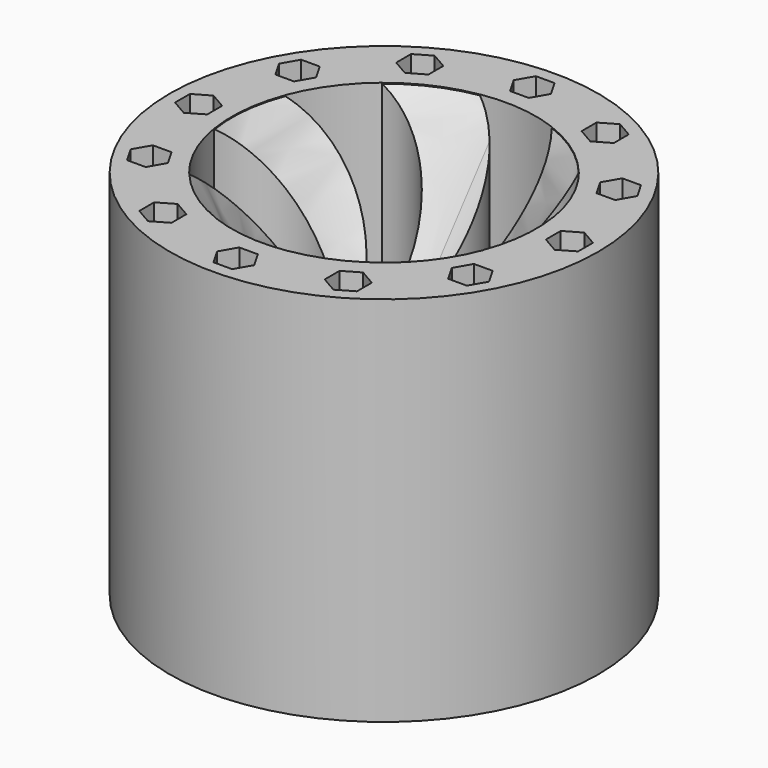
from build123d import *

# Parameters (mm, degrees)
F0_R     = 21.9376783044
F1_DEPTH = 38.1


with BuildPart() as f1:
    # F0 (on Top) → F1 (new body)
    with BuildSketch(Plane.XY):
        Circle(F0_R)
        Polygon((0.952331129, -17.3366013914), (1.9046622579, -18.9860872924), (0.952331129, -20.6355731934), (-0.952331129, -20.6355731934), (-1.9046622579, -18.9860872924), (-0.952331129, -17.3366013914), align=None, mode=Mode.SUBTRACT)
        Polygon((-7.8435577452, -15.4901027847), (-7.8435577452, -17.3947650427), (-9.4930436462, -18.3470961716), (-11.1425295472, -17.3947650427), (-11.1425295472, -15.4901027847), (-9.4930436462, -14.5377716558), align=None, mode=Mode.SUBTRACT)
        Polygon((-14.5377716558, -9.4930436462), (-15.4901027847, -11.1425295472), (-17.3947650427, -11.1425295472), (-18.3470961716, -9.4930436462), (-17.3947650427, -7.8435577452), (-15.4901027847, -7.8435577452), align=None, mode=Mode.SUBTRACT)
        Polygon((9.4930436462, -14.5377716558), (11.1425295472, -15.4901027847), (11.1425295472, -17.3947650427), (9.4930436462, -18.3470961716), (7.8435577452, -17.3947650427), (7.8435577452, -15.4901027847), align=None, mode=Mode.SUBTRACT)
        Polygon((15.4901027847, -7.8435577452), (17.3947650427, -7.8435577452), (18.3470961716, -9.4930436462), (17.3947650427, -11.1425295472), (15.4901027847, -11.1425295472), (14.5377716558, -9.4930436462), align=None, mode=Mode.SUBTRACT)
        Polygon((17.3366013914, 0.952331129), (18.9860872924, 1.9046622579), (20.6355731934, 0.952331129), (20.6355731934, -0.952331129), (18.9860872924, -1.9046622579), (17.3366013914, -0.952331129), align=None, mode=Mode.SUBTRACT)
        Polygon((-17.3366013914, -0.952331129), (-18.9860872924, -1.9046622579), (-20.6355731934, -0.952331129), (-20.6355731934, 0.952331129), (-18.9860872924, 1.9046622579), (-17.3366013914, 0.952331129), align=None, mode=Mode.SUBTRACT)
        Polygon((-15.4901027847, 7.8435577452), (-17.3947650427, 7.8435577452), (-18.3470961716, 9.4930436462), (-17.3947650427, 11.1425295472), (-15.4901027847, 11.1425295472), (-14.5377716558, 9.4930436462), align=None, mode=Mode.SUBTRACT)
        Polygon((-9.4930436462, 14.5377716558), (-11.1425295472, 15.4901027847), (-11.1425295472, 17.3947650427), (-9.4930436462, 18.3470961716), (-7.8435577452, 17.3947650427), (-7.8435577452, 15.4901027847), align=None, mode=Mode.SUBTRACT)
        with BuildLine():
            ThreePointArc((15.3851137164, 2.504792796), (15.5369545339, 1.2564851086), (15.5876781791, 0))
            ThreePointArc((15.5876781791, 0), (15.3327479222, -2.8075883195), (14.5762957165, -5.5233426656))
            ThreePointArc((14.5762957165, -5.5233426656), (12.6500742097, -9.1077622666), (9.8617710507, -12.0715029205))
            ThreePointArc((9.8617710507, -12.0715029205), (6.401404492, -14.2125905994), (2.504792796, -15.3851137164))
            ThreePointArc((2.504792796, -15.3851137164), (-1.5625163897, -15.5091667587), (-5.5233426656, -14.5762957165))
            ThreePointArc((-5.5233426656, -14.5762957165), (-9.1077622666, -12.6500742097), (-12.0715029205, -9.8617710507))
            ThreePointArc((-12.0715029205, -9.8617710507), (-14.2125905994, -6.401404492), (-15.3851137164, -2.504792796))
            ThreePointArc((-15.3851137164, -2.504792796), (-15.5091667587, 1.5625163897), (-14.5762957165, 5.5233426656))
            ThreePointArc((-14.5762957165, 5.5233426656), (-12.6500742097, 9.1077622666), (-9.8617710507, 12.0715029205))
            ThreePointArc((-9.8617710507, 12.0715029205), (-6.401404492, 14.2125905994), (-2.504792796, 15.3851137164))
            ThreePointArc((-2.504792796, 15.3851137164), (1.5625163897, 15.5091667587), (5.5233426656, 14.5762957165))
            ThreePointArc((5.5233426656, 14.5762957165), (9.1077622666, 12.6500742097), (12.0715029205, 9.8617710507))
            ThreePointArc((12.0715029205, 9.8617710507), (14.2125905994, 6.401404492), (15.3851137164, 2.504792796))
        make_face(mode=Mode.SUBTRACT)
        Polygon((14.5377716558, 9.4930436462), (15.4901027847, 11.1425295472), (17.3947650427, 11.1425295472), (18.3470961716, 9.4930436462), (17.3947650427, 7.8435577452), (15.4901027847, 7.8435577452), align=None, mode=Mode.SUBTRACT)
        Polygon((7.8435577452, 15.4901027847), (7.8435577452, 17.3947650427), (9.4930436462, 18.3470961716), (11.1425295472, 17.3947650427), (11.1425295472, 15.4901027847), (9.4930436462, 14.5377716558), align=None, mode=Mode.SUBTRACT)
        Polygon((1.9046622579, 18.9860872924), (0.952331129, 17.3366013914), (-0.952331129, 17.3366013914), (-1.9046622579, 18.9860872924), (-0.952331129, 20.6355731934), (0.952331129, 20.6355731934), align=None, mode=Mode.SUBTRACT)
        with BuildLine():
            ThreePointArc((-0.6102536528, 4.1689763446), (1.4911281934, 10.2919985527), (-2.504792796, 15.3851137164))
            ThreePointArc((-2.504792796, 15.3851137164), (-6.401404492, 14.2125905994), (-9.8617710507, 12.0715029205))
            ThreePointArc((-9.8617710507, 12.0715029205), (-3.8546443806, 9.6586962991), (-2.6129833384, 3.3053125958))
            ThreePointArc((-2.6129833384, 3.3053125958), (-1.6684702404, 3.8689766528), (-0.6102536528, 4.1689763446))
        make_face()
        with BuildLine():
            ThreePointArc((3.3053125958, 2.6129833384), (9.6586962991, 3.8546443806), (12.0715029205, 9.8617710507))
            ThreePointArc((12.0715029205, 9.8617710507), (9.1077622666, 12.6500742097), (5.5233426656, 14.5762957165))
            ThreePointArc((5.5233426656, 14.5762957165), (6.4373541722, 8.1675681056), (1.5559930062, 3.9155662486))
            ThreePointArc((1.5559930062, 3.9155662486), (2.5163969477, 3.3794259401), (3.3053125958, 2.6129833384))
        make_face()
        with BuildLine():
            ThreePointArc((14.5762957165, -5.5233426656), (15.3327479222, -2.8075883195), (15.5876781791, 0))
            ThreePointArc((15.5876781791, 0), (15.5369545339, 1.2564851086), (15.3851137164, 2.504792796))
            ThreePointArc((15.3851137164, 2.504792796), (10.2919985527, -1.4911281934), (4.1689763446, 0.6102536528))
            ThreePointArc((4.1689763446, 0.6102536528), (4.2022824094, 0.3059343629), (4.2134040019, 0))
            ThreePointArc((4.2134040019, 0), (4.1382747483, -0.7921208182), (3.9155662486, -1.5559930062))
            ThreePointArc((3.9155662486, -1.5559930062), (8.1675681056, -6.4373541722), (14.5762957165, -5.5233426656))
        make_face()
        with BuildLine():
            ThreePointArc((2.504792796, -15.3851137164), (6.401404492, -14.2125905994), (9.8617710507, -12.0715029205))
            ThreePointArc((9.8617710507, -12.0715029205), (3.8546443806, -9.6586962991), (2.6129833384, -3.3053125958))
            ThreePointArc((2.6129833384, -3.3053125958), (1.6684702404, -3.8689766528), (0.6102536528, -4.1689763446))
            ThreePointArc((0.6102536528, -4.1689763446), (-1.4911281934, -10.2919985527), (2.504792796, -15.3851137164))
        make_face()
        with BuildLine():
            ThreePointArc((-12.0715029205, -9.8617710507), (-9.1077622666, -12.6500742097), (-5.5233426656, -14.5762957165))
            ThreePointArc((-5.5233426656, -14.5762957165), (-6.4373541722, -8.1675681056), (-1.5559930062, -3.9155662486))
            ThreePointArc((-1.5559930062, -3.9155662486), (-2.5163969477, -3.3794259401), (-3.3053125958, -2.6129833384))
            ThreePointArc((-3.3053125958, -2.6129833384), (-9.6586962991, -3.8546443806), (-12.0715029205, -9.8617710507))
        make_face()
        with BuildLine():
            ThreePointArc((-3.9155662486, 1.5559930062), (-8.1675681056, 6.4373541722), (-14.5762957165, 5.5233426656))
            ThreePointArc((-14.5762957165, 5.5233426656), (-15.5091667587, 1.5625163897), (-15.3851137164, -2.504792796))
            ThreePointArc((-15.3851137164, -2.504792796), (-10.2919985527, 1.4911281934), (-4.1689763446, -0.6102536528))
            ThreePointArc((-4.1689763446, -0.6102536528), (-4.1848671882, 0.4895507127), (-3.9155662486, 1.5559930062))
        make_face()
        with BuildLine():
            ThreePointArc((4.2134040019, 0), (4.2022824094, 0.3059343629), (4.1689763446, 0.6102536528))
            ThreePointArc((4.1689763446, 0.6102536528), (3.8689766528, 1.6684702404), (3.3053125958, 2.6129833384))
            ThreePointArc((3.3053125958, 2.6129833384), (2.5163969477, 3.3794259401), (1.5559930062, 3.9155662486))
            ThreePointArc((1.5559930062, 3.9155662486), (0.4895507127, 4.1848671882), (-0.6102536528, 4.1689763446))
            ThreePointArc((-0.6102536528, 4.1689763446), (-1.6684702404, 3.8689766528), (-2.6129833384, 3.3053125958))
            ThreePointArc((-2.6129833384, 3.3053125958), (-3.3794259401, 2.5163969477), (-3.9155662486, 1.5559930062))
            ThreePointArc((-3.9155662486, 1.5559930062), (-4.1848671882, 0.4895507127), (-4.1689763446, -0.6102536528))
            ThreePointArc((-4.1689763446, -0.6102536528), (-3.8689766528, -1.6684702404), (-3.3053125958, -2.6129833384))
            ThreePointArc((-3.3053125958, -2.6129833384), (-2.5163969477, -3.3794259401), (-1.5559930062, -3.9155662486))
            ThreePointArc((-1.5559930062, -3.9155662486), (-0.4895507127, -4.1848671882), (0.6102536528, -4.1689763446))
            ThreePointArc((0.6102536528, -4.1689763446), (1.6684702404, -3.8689766528), (2.6129833384, -3.3053125958))
            ThreePointArc((2.6129833384, -3.3053125958), (3.3794259401, -2.5163969477), (3.9155662486, -1.5559930062))
            ThreePointArc((3.9155662486, -1.5559930062), (4.1382747483, -0.7921208182), (4.2134040019, 0))
        make_face()
    extrude(amount=F1_DEPTH)

    # F2 (on Right) → F3 (revolve, cut)
    with BuildSketch(Plane.YZ):
        Polygon((0, 18.5425970703), (15.5694698915, 38.0088165402), (15.5694698915, 39.0662141144), (0, 39.0662141144), align=None)
    revolve(axis=Axis((0, 0, 28.8044055924), (0, 0, 1)), mode=Mode.SUBTRACT)


solid = f1.part
